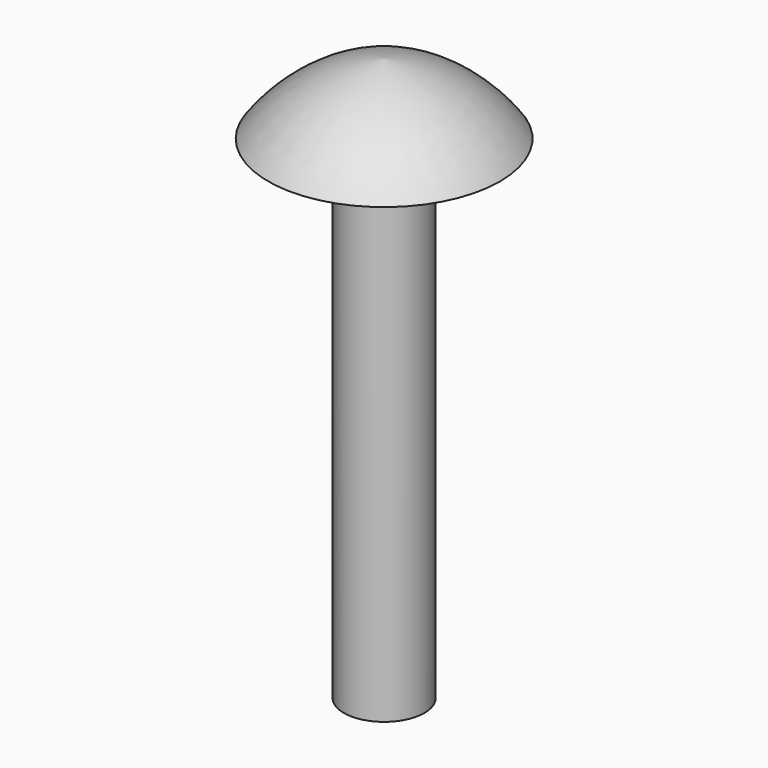
from build123d import *

# Parameters (mm, degrees)
F0_R     = 1.8
F1_DEPTH = 22


with BuildPart() as f1:
    # F0 (on Top) → F1 (new body)
    with BuildSketch(Plane.XY):
        Circle(F0_R)
    extrude(amount=F1_DEPTH)

    # F2 (on Front) → F3 (revolve)
    with BuildSketch(Plane.XZ):
        with BuildLine():
            Line((0, 25.155827), (0, 22))
            Line((0, 22), (5.177094, 22))
            ThreePointArc((5.177094, 22), (2.911415, 24.107575), (0, 25.155827))
        make_face()
    revolve(axis=Axis((0, 0, 23.577914), (0, 0, 1)))


solid = f1.part
